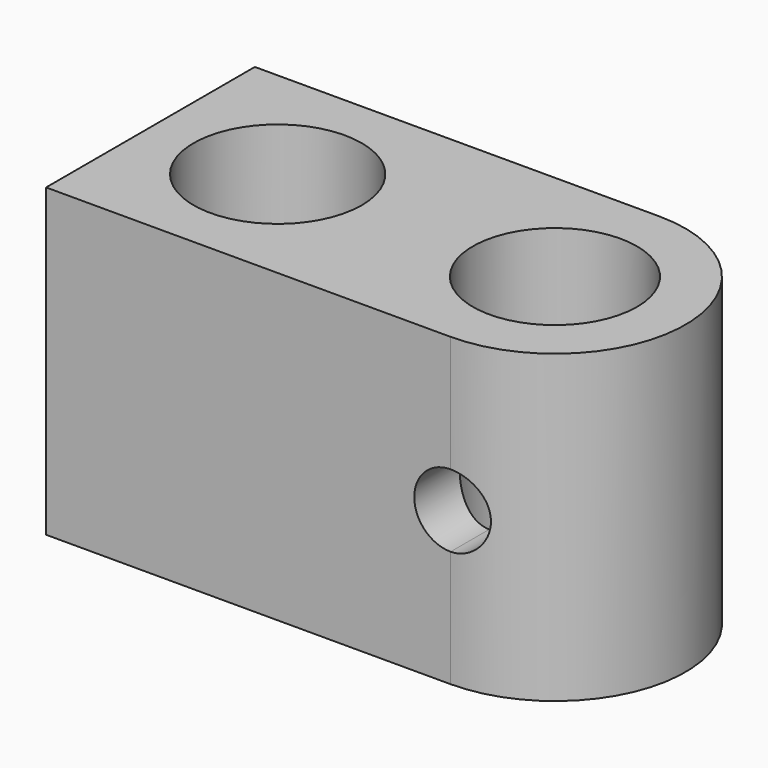
from build123d import *

# Parameters (mm, degrees)
F0_R     = 2.62001
F0_R_2   = 2.55651
F1_DEPTH = 9.525
F3_DEPTH = 1.7719311324


with BuildPart() as f1:
    # F0 (on Top) → F1 (new body)
    with BuildSketch(Plane.XY):
        with BuildLine():
            Line((0, 8.128), (0, 0))
            Line((0, 0), (12.5984, 0))
            ThreePointArc((12.5984, 0), (16.6624, 4.064), (12.5984, 8.128))
            Line((12.5984, 8.128), (0, 8.128))
        make_face()
        with Locations((3.9624, 4.064)):
            Circle(F0_R, mode=Mode.SUBTRACT)
        with Locations((12.5984, 4.064)):
            Circle(F0_R_2, mode=Mode.SUBTRACT)
    extrude(amount=F1_DEPTH)

    # F2 (on face) → F3 (cut, through all)
    with BuildSketch(Plane.XZ):
        with BuildLine():
            Line((12.5984, 3.6322), (12.5984, 5.8928))
            ThreePointArc((12.5984, 5.8928), (11.4681, 4.7625), (12.5984, 3.6322))
        make_face()
        with BuildLine():
            ThreePointArc((12.5984, 3.6322), (13.3976427948, 3.9632572052), (13.7287, 4.7625))
            ThreePointArc((13.7287, 4.7625), (13.3976427948, 5.5617427948), (12.5984, 5.8928))
            Line((12.5984, 5.8928), (12.5984, 3.6322))
        make_face()
    extrude(amount=-F3_DEPTH, mode=Mode.SUBTRACT)


solid = f1.part
